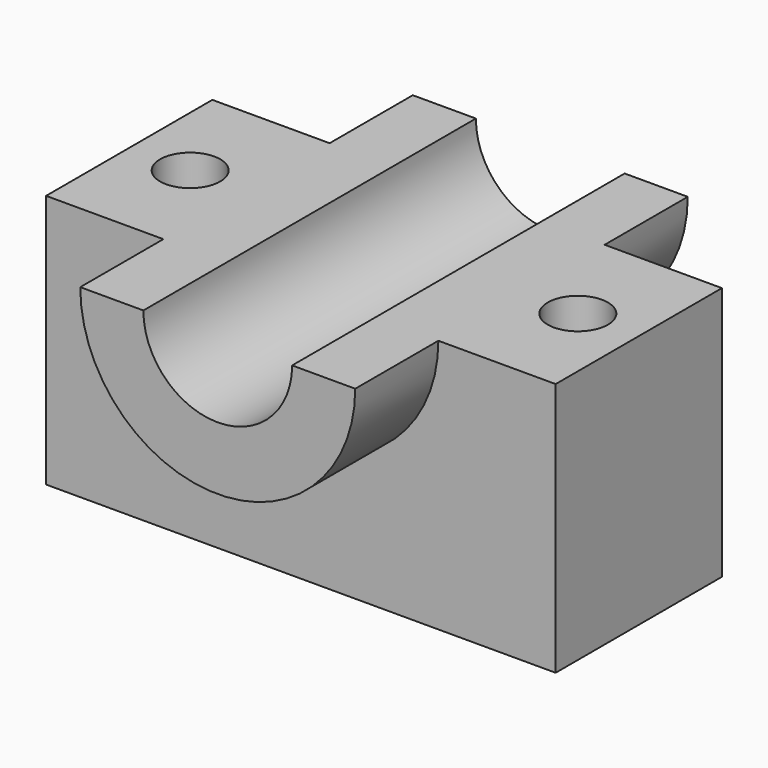
from build123d import *

# Parameters (mm, degrees)
F1_DEPTH = 25.4
F2_DEPTH = 50.8
F4_R     = 7.355255
F5_DEPTH = 62.131667


with BuildPart() as f1:
    # F0 (on Front) → F1 (new body)
    with BuildSketch(Plane.XZ):
        with BuildLine():
            Line((-62.279664, 0), (-62.279664, -62.130667))
            Line((-62.279664, -62.130667), (62.279664, -62.130667))
            Line((62.279664, -62.130667), (62.279664, 0))
            Line((62.279664, 0), (33.608398, 0))
            ThreePointArc((33.608398, 0), (0, -33.608398), (-33.608398, 0))
            Line((-33.608398, 0), (-62.279664, 0))
        make_face()
        with BuildLine():
            Line((-18.182814, 0), (-33.608398, 0))
            ThreePointArc((-33.608398, 0), (0, -33.608398), (33.608398, 0))
            Line((33.608398, 0), (18.182814, 0))
            ThreePointArc((18.182814, 0), (0, -18.182814), (-18.182814, 0))
        make_face()
    extrude(amount=F1_DEPTH)

    # F0 (on Front) → F2 (join)
    with BuildSketch(Plane.XZ):
        with BuildLine():
            Line((-18.182814, 0), (-33.608398, 0))
            ThreePointArc((-33.608398, 0), (0, -33.608398), (33.608398, 0))
            Line((33.608398, 0), (18.182814, 0))
            ThreePointArc((18.182814, 0), (0, -18.182814), (-18.182814, 0))
        make_face()
    extrude(amount=F2_DEPTH)

    # F3: F1 across plane


with BuildPart() as f1_1:
    add(f1.part)
    add(f1.part.mirror(Plane.XZ))

    # F4 (on face) → F5 (cut, through all)
    with BuildSketch(Plane.XY):
        with Locations((-47.380224, 0)):
            Circle(F4_R)
        with Locations((47.380224, 0)):
            Circle(F4_R)
    extrude(amount=-F5_DEPTH, mode=Mode.SUBTRACT)


solid = f1_1.part
